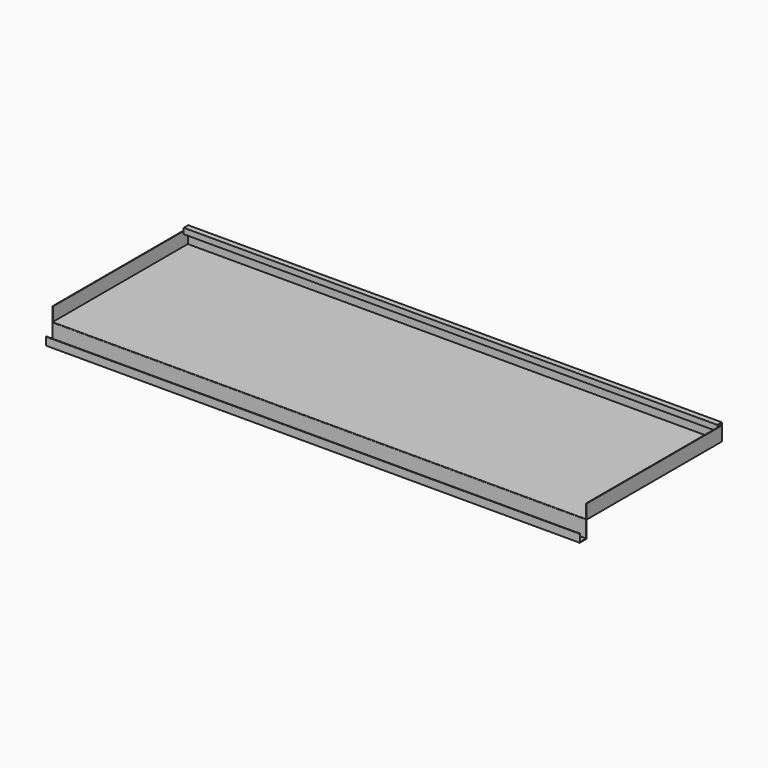
from build123d import *

# Parameters (mm, degrees)
F1_DEPTH      = 300
F3_DEPTH      = 473
F3_DEPTH_BACK = 473
F5_DEPTH      = 473
F5_DEPTH_BACK = 473


with BuildPart() as f1:
    # F0 (on Front) → F1 (new body)
    with BuildSketch(Plane.XZ):
        Polygon((-474, 25), (-474, 0), (473, 0), (473, 25), (472, 25), (472, 1), (-473, 1), (-473, 25), align=None)
    extrude(amount=F1_DEPTH)

    # F2 (on Right) → F3 (join, two sides)
    with BuildSketch(Plane.YZ) as f3_sk:
        with BuildLine():
            Line((-300, -30), (-300, 0))
            Line((-300, 0), (-300, 1))
            ThreePointArc((-300, 1), (-300.707107, 0.707107), (-301, 0))
            Line((-301, 0), (-301, -29))
            Line((-301, -29), (-314, -29))
            Line((-314, -29), (-314, -16))
            Line((-314, -16), (-315, -16))
            Line((-315, -16), (-315, -30))
            Line((-315, -30), (-300, -30))
        make_face()
    extrude(amount=F3_DEPTH)
    extrude(f3_sk.sketch, amount=-F3_DEPTH_BACK)

    # F4 (on Right) → F5 (join, two sides)
    with BuildSketch(Plane.YZ) as f5_sk:
        Polygon((-1, 0), (0, 0), (0, 30), (-10, 30), (-10, 20), (-9, 20), (-9, 29), (-1, 29), align=None)
    extrude(amount=F5_DEPTH)
    extrude(f5_sk.sketch, amount=-F5_DEPTH_BACK)


solid = f1.part
